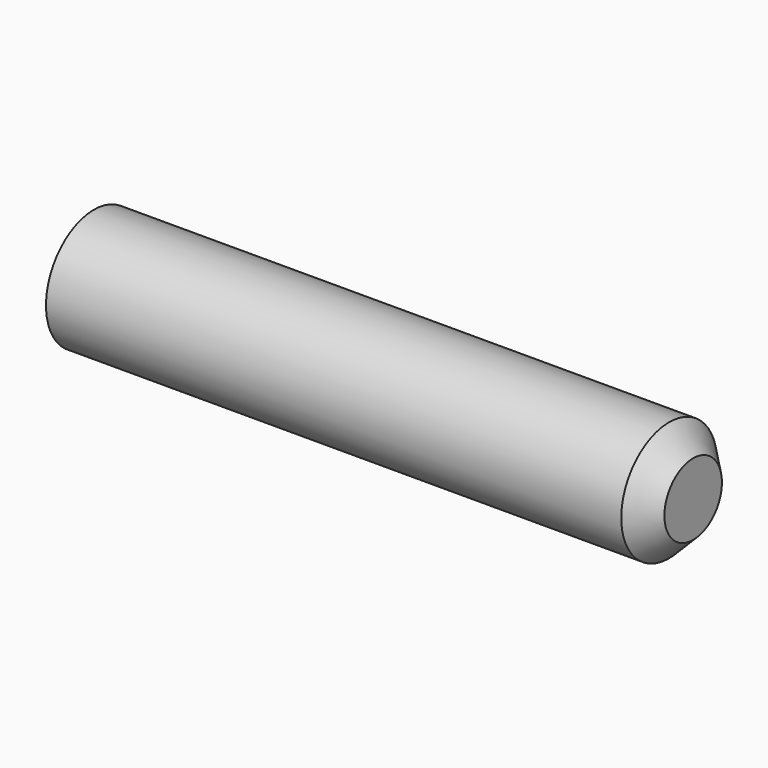
from build123d import *

# Parameters (mm, degrees)
F0_R     = 2.5
F1_DEPTH = 25
F2_SIZE  = 1


with BuildPart() as f1:
    # F0 (on Right) → F1 (new body)
    with BuildSketch(Plane.YZ):
        Circle(F0_R)
    extrude(amount=F1_DEPTH)

    # F2
    f2_edges = [f1.edges().sort_by_distance(p)[0] for p in [
        (25, -2.5, 0),
    ]]
    chamfer(f2_edges, length=F2_SIZE)


solid = f1.part
